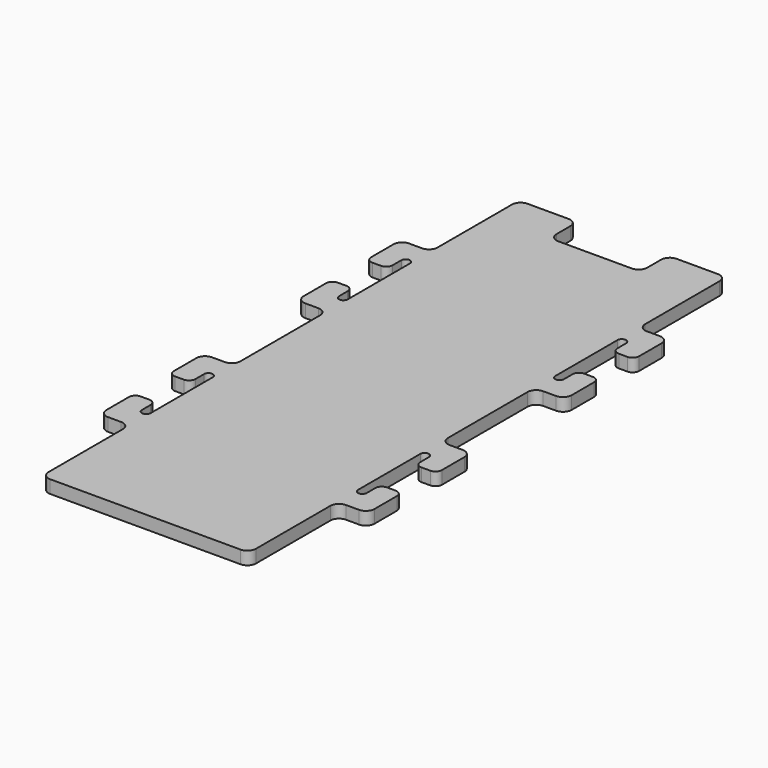
from build123d import *

# Parameters (mm, degrees)
F1_DEPTH = 3


with BuildPart() as f1:
    # F0 (on Top) → F1 (new body)
    with BuildSketch(Plane.XY):
        with BuildLine():
            ThreePointArc((0, 2), (0.585786, 0.585786), (2, 0))
            Line((2, 0), (24, 0))
            Line((24, 0), (46, 0))
            ThreePointArc((46, 0), (47.414214, 0.585786), (48, 2))
            Line((48, 2), (48, 23.5))
            ThreePointArc((48, 23.5), (48.585786, 24.914214), (50, 25.5))
            Line((50, 25.5), (53, 25.5))
            ThreePointArc((53, 25.5), (54.414214, 26.085786), (55, 27.5))
            Line((55, 27.5), (55, 34))
            ThreePointArc((55, 34), (54.56066, 35.06066), (53.5, 35.5))
            Line((53.5, 35.5), (51.5, 35.5))
            ThreePointArc((51.5, 35.5), (50.43934, 35.06066), (50, 34))
            Line((50, 34), (50, 31.5))
            ThreePointArc((50, 31.5), (49, 30.5), (48, 31.5))
            Line((48, 31.5), (48, 49.5))
            ThreePointArc((48, 49.5), (49, 50.5), (50, 49.5))
            Line((50, 49.5), (50, 47))
            ThreePointArc((50, 47), (50.43934, 45.93934), (51.5, 45.5))
            Line((51.5, 45.5), (53.5, 45.5))
            ThreePointArc((53.5, 45.5), (54.56066, 45.93934), (55, 47))
            Line((55, 47), (55, 53.5))
            ThreePointArc((55, 53.5), (54.414214, 54.914214), (53, 55.5))
            Line((53, 55.5), (50, 55.5))
            ThreePointArc((50, 55.5), (48.585786, 56.085786), (48, 57.5))
            Line((48, 57.5), (48, 80.5))
            ThreePointArc((48, 80.5), (48.585786, 81.914214), (50, 82.5))
            Line((50, 82.5), (53, 82.5))
            ThreePointArc((53, 82.5), (54.414214, 83.085786), (55, 84.5))
            Line((55, 84.5), (55, 91))
            ThreePointArc((55, 91), (54.56066, 92.06066), (53.5, 92.5))
            Line((53.5, 92.5), (51.5, 92.5))
            ThreePointArc((51.5, 92.5), (50.43934, 92.06066), (50, 91))
            Line((50, 91), (50, 88.5))
            ThreePointArc((50, 88.5), (49, 87.5), (48, 88.5))
            Line((48, 88.5), (48, 106.5))
            ThreePointArc((48, 106.5), (49, 107.5), (50, 106.5))
            Line((50, 106.5), (50, 104))
            ThreePointArc((50, 104), (50.43934, 102.93934), (51.5, 102.5))
            Line((51.5, 102.5), (53.5, 102.5))
            ThreePointArc((53.5, 102.5), (54.56066, 102.93934), (55, 104))
            Line((55, 104), (55, 110.5))
            ThreePointArc((55, 110.5), (54.414214, 111.914214), (53, 112.5))
            Line((53, 112.5), (50, 112.5))
            ThreePointArc((50, 112.5), (48.585786, 113.085786), (48, 114.5))
            Line((48, 114.5), (48, 136))
            ThreePointArc((48, 136), (47.414214, 137.414214), (46, 138))
            Line((46, 138), (36.5, 138))
            ThreePointArc((36.5, 138), (35.085786, 137.414214), (34.5, 136))
            Line((34.5, 136), (34.5, 132))
            ThreePointArc((34.5, 132), (33.914214, 130.585786), (32.5, 130))
            Line((32.5, 130), (24, 130))
            Line((24, 130), (15.5, 130))
            ThreePointArc((15.5, 130), (14.085786, 130.585786), (13.5, 132))
            Line((13.5, 132), (13.5, 136))
            ThreePointArc((13.5, 136), (12.914214, 137.414214), (11.5, 138))
            Line((11.5, 138), (2, 138))
            ThreePointArc((2, 138), (0.585786, 137.414214), (0, 136))
            Line((0, 136), (0, 114.5))
            ThreePointArc((0, 114.5), (-0.585786, 113.085786), (-2, 112.5))
            Line((-2, 112.5), (-5, 112.5))
            ThreePointArc((-5, 112.5), (-6.414214, 111.914214), (-7, 110.5))
            Line((-7, 110.5), (-7, 104))
            ThreePointArc((-7, 104), (-6.56066, 102.93934), (-5.5, 102.5))
            Line((-5.5, 102.5), (-3.5, 102.5))
            ThreePointArc((-3.5, 102.5), (-2.43934, 102.93934), (-2, 104))
            Line((-2, 104), (-2, 106.5))
            ThreePointArc((-2, 106.5), (-1, 107.5), (0, 106.5))
            Line((0, 106.5), (0, 88.5))
            ThreePointArc((0, 88.5), (-1, 87.5), (-2, 88.5))
            Line((-2, 88.5), (-2, 91))
            ThreePointArc((-2, 91), (-2.43934, 92.06066), (-3.5, 92.5))
            Line((-3.5, 92.5), (-5.5, 92.5))
            ThreePointArc((-5.5, 92.5), (-6.56066, 92.06066), (-7, 91))
            Line((-7, 91), (-7, 84.5))
            ThreePointArc((-7, 84.5), (-6.414214, 83.085786), (-5, 82.5))
            Line((-5, 82.5), (-2, 82.5))
            ThreePointArc((-2, 82.5), (-0.585786, 81.914214), (0, 80.5))
            Line((0, 80.5), (0, 57.5))
            ThreePointArc((0, 57.5), (-0.585786, 56.085786), (-2, 55.5))
            Line((-2, 55.5), (-5, 55.5))
            ThreePointArc((-5, 55.5), (-6.414214, 54.914214), (-7, 53.5))
            Line((-7, 53.5), (-7, 47))
            ThreePointArc((-7, 47), (-6.56066, 45.93934), (-5.5, 45.5))
            Line((-5.5, 45.5), (-3.5, 45.5))
            ThreePointArc((-3.5, 45.5), (-2.43934, 45.93934), (-2, 47))
            Line((-2, 47), (-2, 49.5))
            ThreePointArc((-2, 49.5), (-1, 50.5), (0, 49.5))
            Line((0, 49.5), (0, 31.5))
            ThreePointArc((0, 31.5), (-1, 30.5), (-2, 31.5))
            Line((-2, 31.5), (-2, 34))
            ThreePointArc((-2, 34), (-2.43934, 35.06066), (-3.5, 35.5))
            Line((-3.5, 35.5), (-5.5, 35.5))
            ThreePointArc((-5.5, 35.5), (-6.56066, 35.06066), (-7, 34))
            Line((-7, 34), (-7, 27.5))
            ThreePointArc((-7, 27.5), (-6.414214, 26.085786), (-5, 25.5))
            Line((-5, 25.5), (-2, 25.5))
            ThreePointArc((-2, 25.5), (-0.585786, 24.914214), (0, 23.5))
            Line((0, 23.5), (0, 2))
        make_face()
    extrude(amount=F1_DEPTH)


solid = f1.part
